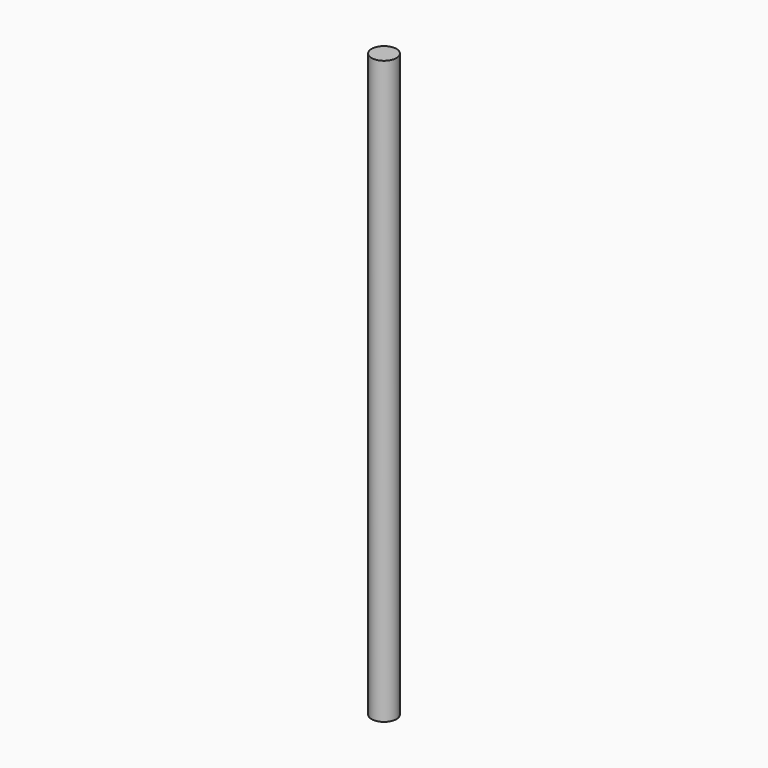
from build123d import *

# Parameters (mm, degrees)
F0_R     = 15
F1_DEPTH = 25.4
F2_DEPTH = 600
F3_DEPTH = 25.4
F4_DEPTH = 25.4
F5_DEPTH = 25.4


with BuildPart() as f1:
    # F0 (on Top) → F1 (new body)
    with BuildSketch(Plane.XY):
        Circle(F0_R)
        Circle(F0_R)
    extrude(amount=F1_DEPTH)

    # F2 (add): a face of the model
    f2_faces = [f1.faces().sort_by_distance(p)[0] for p in [
        (0, 0, 25.4),
    ]]
    extrude(f2_faces, amount=F2_DEPTH)

    # F3 (add): a face of the model
    f3_faces = [f1.faces().sort_by_distance(p)[0] for p in [
        (0, 0, 625.4),
    ]]
    extrude(f3_faces, amount=F3_DEPTH)

    # F4 (add): faces of the model
    f4_faces = [f1.faces().sort_by_distance(p)[0] for p in [
        (0, 0, 650.8),
        (0, 0, 0),
    ]]
    extrude(f4_faces, amount=F4_DEPTH, dir=(0, 0, 1))

    # F5 (add): a face of the model
    f5_faces = [f1.faces().sort_by_distance(p)[0] for p in [
        (0, 0, 676.2),
    ]]
    extrude(f5_faces, amount=F5_DEPTH)


solid = f1.part
